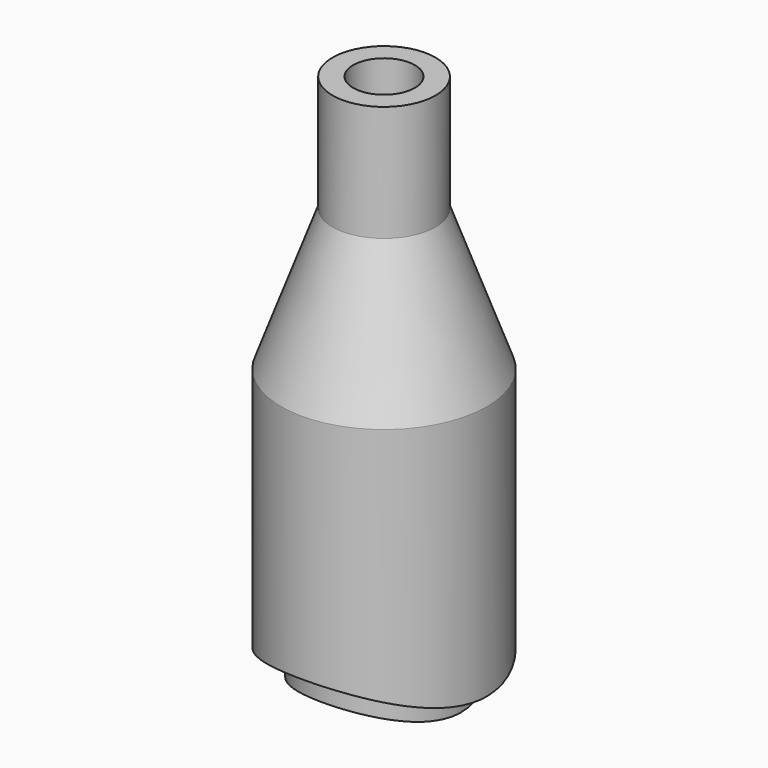
from build123d import *

# Parameters (mm, degrees)
SKETCH005_R      = 1.2
EXTRUDE005_DEPTH = 30
SKETCH003_R      = 8
EXTRUDE004_DEPTH = 10
SKETCH002_R      = 3
EXTRUDE003_DEPTH = 12
SKETCH001_R      = 9.2
EXTRUDE001_DEPTH = 10
SKETCH_R         = 4
EXTRUDE_DEPTH    = 10


with BuildPart() as extrude005:
    # Sketch005 → Extrude005 (new body)
    with BuildSketch(Plane.XY.offset(20)):
        Circle(SKETCH005_R)
    extrude(amount=-EXTRUDE005_DEPTH)


with BuildPart() as extrude004:
    # Sketch003 → Extrude004 (new body, symmetric)
    with BuildSketch(Plane.XZ):
        with Locations((0, -8.2)):
            Circle(SKETCH003_R)
    extrude(amount=EXTRUDE004_DEPTH, both=True)


with BuildPart() as cut001:
    # Sketch002 (on Face3 of Cut) → Extrude003 (new body)
    with BuildSketch(Plane.XY.offset(10)):
        Circle(SKETCH002_R)
    extrude(amount=-EXTRUDE003_DEPTH)

    # Cut001: cut Extrude004
    add(extrude004.part, mode=Mode.SUBTRACT)


with BuildPart() as extrude001:
    # Sketch001 → Extrude001 (new body, symmetric)
    with BuildSketch(Plane.XZ):
        with Locations((0, -8.2)):
            Circle(SKETCH001_R)
    extrude(amount=EXTRUDE001_DEPTH, both=True)


with BuildPart() as cut004:
    # Sketch → Extrude (new body)
    with BuildSketch(Plane.XY):
        Circle(SKETCH_R)
    extrude(amount=EXTRUDE_DEPTH)

    # Cut: cut Extrude001
    add(extrude001.part, mode=Mode.SUBTRACT)

    # Fusion: union Cut001
    add(cut001.part)

    # Cut003: cut Extrude005
    add(extrude005.part, mode=Mode.SUBTRACT)

    # Cut004: cut Extrude005
    add(extrude005.part, mode=Mode.SUBTRACT)


with BuildPart() as fusion001:
    # Sketch004 → Revolve (revolve)
    with BuildSketch(Plane.XZ):
        Polygon((1.2, 10), (4, 10), (2, 15.494955), (2, 20), (1.2, 20), align=None)
    revolve(axis=Axis((0, 0, 0), (0, 0, 1)))

    # Fusion001: union Cut004
    add(cut004.part)


solid = fusion001.part
